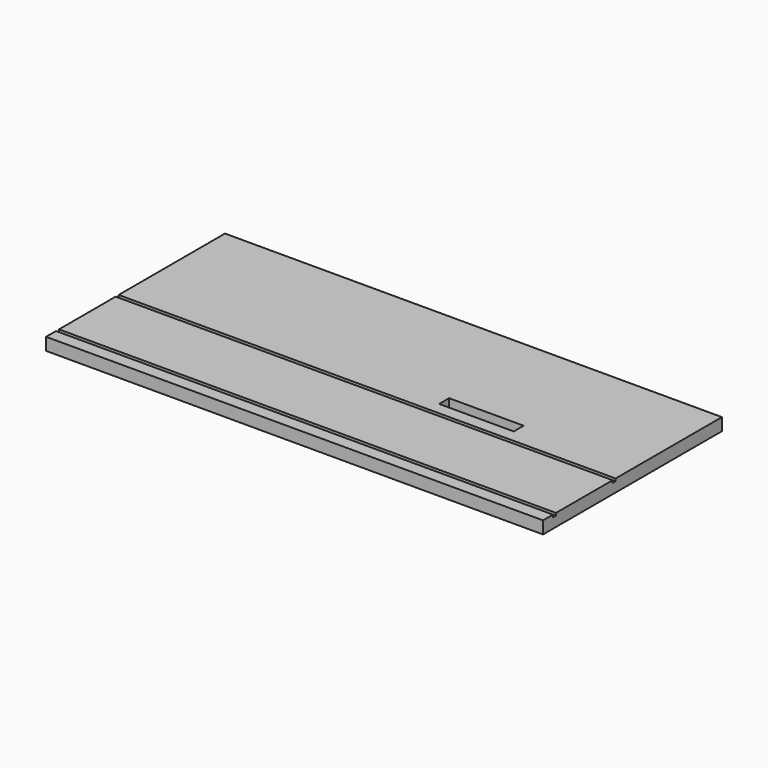
from build123d import *

# Parameters (mm, degrees)
F0_W     = 2000
F0_H     = 900
F1_DEPTH = 50
F3_W     = 15
F3_H     = 10
F4_DEPTH = 2000
F5_W     = 15
F5_H     = 10
F6_DEPTH = 2000
F7_W     = 300
F7_H     = 50
F8_DEPTH = 50


with BuildPart() as f1:
    # F0 (on Top) → F1 (new body)
    with BuildSketch(Plane.XY):
        Rectangle(F0_W, F0_H)
    extrude(amount=F1_DEPTH)

    # F3 (on face) → F4 (cut)
    with BuildSketch(Plane.YZ.offset(1000)):
        with Locations((-92.5, 45)):
            Rectangle(F3_W, F3_H)
    extrude(amount=-F4_DEPTH, mode=Mode.SUBTRACT)

    # F5 (on face) → F6 (cut)
    with BuildSketch(Plane.YZ.offset(1000)):
        with Locations((-392.5, 45)):
            Rectangle(F5_W, F5_H)
    extrude(amount=-F6_DEPTH, mode=Mode.SUBTRACT)

    # F7 (on face) → F8 (cut)
    with BuildSketch(Plane.XY.offset(50)):
        with Locations((400, -10)):
            Rectangle(F7_W, F7_H)
    extrude(amount=-F8_DEPTH, mode=Mode.SUBTRACT)


solid = f1.part
